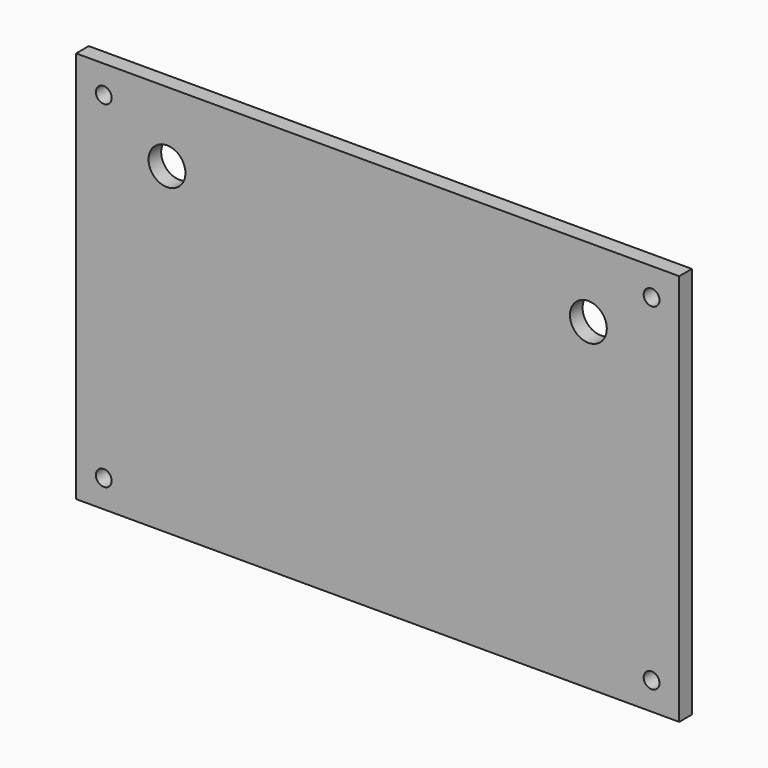
from build123d import *

# Parameters (mm, degrees)
F0_W     = 114.5
F0_H     = 74.5
F0_R     = 1.5
F0_R_2   = 3.5
F1_DEPTH = 3


with BuildPart() as f1:
    # F0 (on Front) → F1 (new body)
    with BuildSketch(Plane.XZ):
        Rectangle(F0_W, F0_H)
        with Locations((-52, -32)):
            Circle(F0_R, mode=Mode.SUBTRACT)
        with Locations((52, -32)):
            Circle(F0_R, mode=Mode.SUBTRACT)
        with Locations((-40, 24)):
            Circle(F0_R_2, mode=Mode.SUBTRACT)
        with Locations((-52, 32)):
            Circle(F0_R, mode=Mode.SUBTRACT)
        with Locations((40, 24)):
            Circle(F0_R_2, mode=Mode.SUBTRACT)
        with Locations((52, 32)):
            Circle(F0_R, mode=Mode.SUBTRACT)
    extrude(amount=F1_DEPTH)


solid = f1.part
